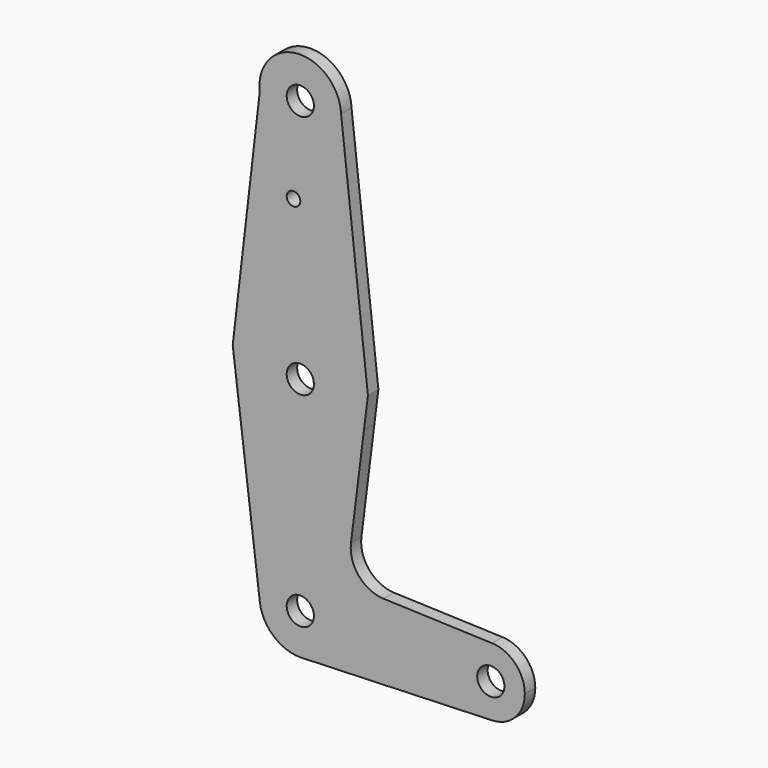
from build123d import *

# Parameters (mm, degrees)
F0_R     = 3.175
F0_R_2   = 1.5875
F1_DEPTH = 3.048


with BuildPart() as f1:
    # F0 (on Front) → F1 (new body)
    with BuildSketch(Plane.XZ):
        with BuildLine():
            ThreePointArc((-9.455876, 103.629563), (0.57376, 95.267297), (9.525, 104.775))
            ThreePointArc((9.525, 104.775), (9.52278, 104.980624), (9.516122, 105.186152))
            ThreePointArc((9.516122, 105.186152), (-0.778877, 114.268101), (-9.455876, 103.629563))
        make_face()
        with Locations((0, 104.775)):
            Circle(F0_R, mode=Mode.SUBTRACT)
        with BuildLine():
            Line((11.820689, 17.765041), (14.854329, 42.024595))
            ThreePointArc((14.854329, 42.024595), (0.02897, 31.750026), (-14.83379, 41.970418))
            Line((-14.83379, 41.970418), (-9.45176, -1.178921))
            ThreePointArc((-9.45176, -1.178921), (-0.590597, 9.506672), (9.525, 0))
            ThreePointArc((9.525, 0), (6.970557, -6.491299), (0.677344, -9.500886))
            Line((0.677344, -9.500886), (44.732405, -7.932475))
            ThreePointArc((44.732405, -7.932475), (36.5125, 0), (44.732405, 7.932475))
            Line((44.732405, 7.932475), (19.426592, 8.833391))
            ThreePointArc((19.426592, 8.833391), (13.656563, 11.624117), (11.820689, 17.765041))
        make_face()
        with BuildLine():
            ThreePointArc((9.516122, 105.186152), (9.52278, 104.980624), (9.525, 104.775))
            ThreePointArc((9.525, 104.775), (0.57376, 95.267297), (-9.455876, 103.629563))
            Line((-9.455876, 103.629563), (-15.768289, 49.462576))
            ThreePointArc((-15.768289, 49.462576), (0.033956, 63.499964), (15.776006, 49.395104))
            Line((15.776006, 49.395104), (9.516122, 105.186152))
        make_face()
        with Locations((-1.5875, 84.1502)):
            Circle(F0_R_2, mode=Mode.SUBTRACT)
        with BuildLine():
            Line((14.854329, 42.024595), (15.776006, 49.395104))
            ThreePointArc((15.776006, 49.395104), (0.033956, 63.499964), (-15.768289, 49.462576))
            Line((-15.768289, 49.462576), (-14.83379, 41.970418))
            ThreePointArc((-14.83379, 41.970418), (0.02897, 31.750026), (14.854329, 42.024595))
        make_face()
        with Locations((0, 47.625)):
            Circle(F0_R, mode=Mode.SUBTRACT)
        with BuildLine():
            ThreePointArc((9.525, 0), (-0.590597, 9.506672), (-9.45176, -1.178921))
            ThreePointArc((-9.45176, -1.178921), (-6.304618, -7.139848), (0, -9.525))
            Line((0, -9.525), (0.677344, -9.500886))
            ThreePointArc((0.677344, -9.500886), (6.970557, -6.491299), (9.525, 0))
        make_face()
        Circle(F0_R, mode=Mode.SUBTRACT)
        with BuildLine():
            ThreePointArc((52.3875, 0), (50.161633, 5.51191), (44.732405, 7.932475))
            ThreePointArc((44.732405, 7.932475), (36.5125, 0), (44.732405, -7.932475))
            ThreePointArc((44.732405, -7.932475), (50.161633, -5.51191), (52.3875, 0))
        make_face()
        with Locations((44.45, 0)):
            Circle(F0_R, mode=Mode.SUBTRACT)
    extrude(amount=F1_DEPTH)


solid = f1.part
